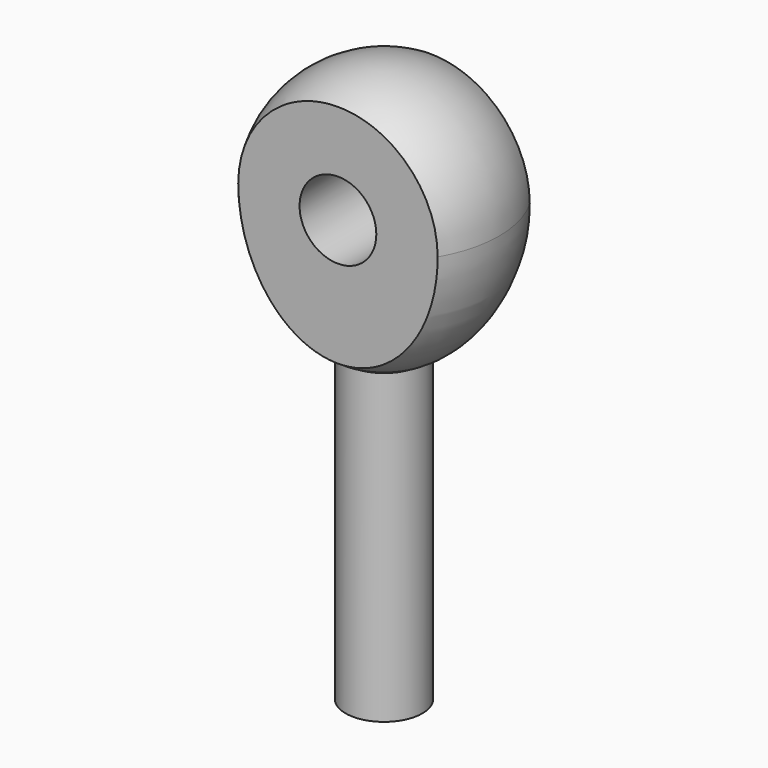
from build123d import *

# Parameters (mm, degrees)
F2_W     = 19.05
F2_H     = 6.35
F3_DEPTH = 12.7
F4_R     = 3.175
F5_DEPTH = 12.7
F7_R     = 3.175
F8_DEPTH = 25.4


with BuildPart() as f1:
    # F0 (on Front) → F1 (revolve)
    with BuildSketch(Plane.XZ):
        with BuildLine():
            add(Edge.make_bspline(
                [(0, -12.065), (9.525, -12.065), (9.525, 0)],
                knots=[3.1415926536, 3.1415926536, 3.1415926536, 4.7123889804, 4.7123889804, 4.7123889804], degree=2, weights=[1, 0.7071067812, 1]))
            ThreePointArc((9.525, 0), (6.7351920908, 6.7351920908), (0, 9.525))
            Line((0, 9.525), (0, -12.065))
        make_face()
    revolve(axis=Axis((0, 0, 2.0303288475), (0, 0, -1)))

    # F2 (on Top) → F3 (cut, symmetric)
    with BuildSketch(Plane.XY):
        with Locations((0, 7.9375)):
            Rectangle(F2_W, F2_H)
        with Locations((0, -7.9375)):
            Rectangle(F2_W, F2_H)
    extrude(amount=F3_DEPTH, both=True, mode=Mode.SUBTRACT)

    # F4 (on Front) → F5 (cut, symmetric)
    with BuildSketch(Plane.XZ):
        Circle(F4_R)
    extrude(amount=F5_DEPTH, both=True, mode=Mode.SUBTRACT)

    # F7 (on offset) → F8 (join)
    with BuildSketch(Plane.XY.offset(-11.43)):
        Circle(F7_R)
    extrude(amount=-F8_DEPTH)


solid = f1.part
